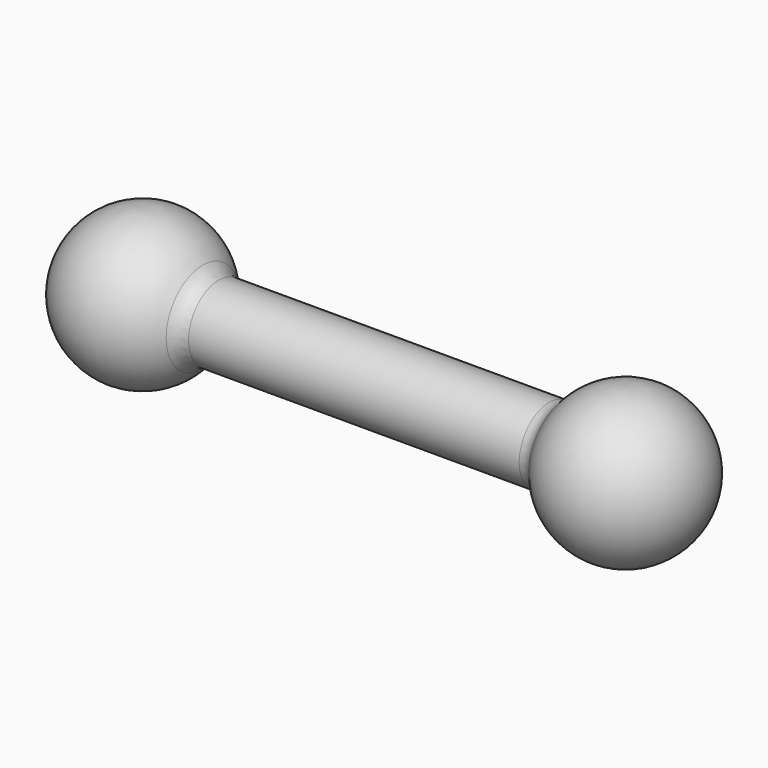
from build123d import *

# Parameters (mm, degrees)
F2_R = 5.08


with BuildPart() as f1:
    # F0 (on Front) → F1 (revolve)
    with BuildSketch(Plane.XZ):
        with BuildLine():
            Line((0, 9.526461), (-44.45, 9.526461))
            ThreePointArc((-44.45, 9.526461), (-65.878258, 18.400669), (-79.99694, 0))
            Line((-79.99694, 0), (79.99694, 0))
            ThreePointArc((79.99694, 0), (65.878258, 18.400669), (44.45, 9.526461))
            Line((44.45, 9.526461), (0, 9.526461))
        make_face()
    revolve(axis=Axis((0, 0, 0), (1, 0, 0)))

    # F2
    f2_edges = [f1.edges().sort_by_distance(p)[0] for p in [
        (44.45, 0, -9.526461),
        (-44.45, 0, -9.526461),
    ]]
    fillet(f2_edges, radius=F2_R)


solid = f1.part
